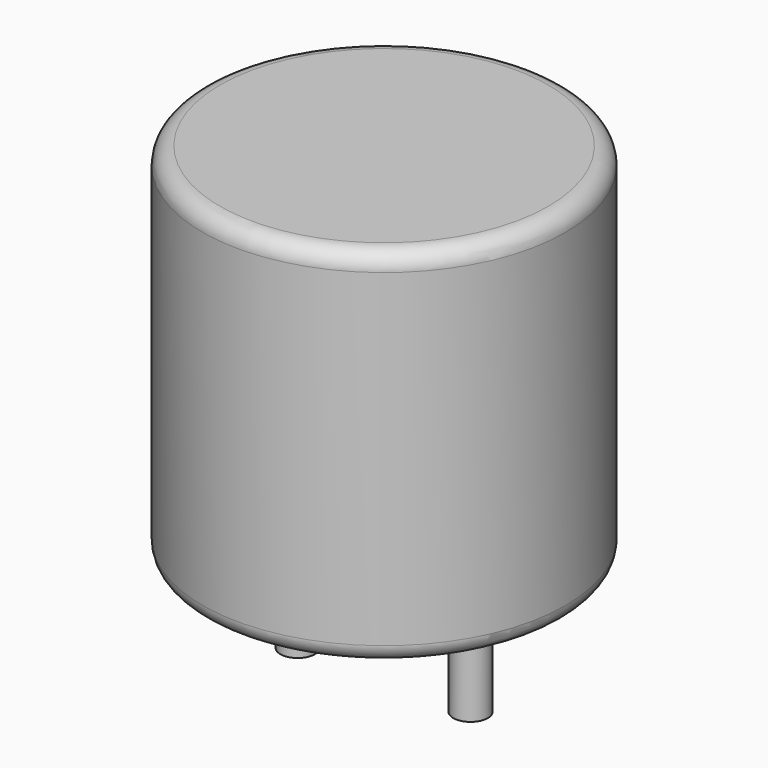
from build123d import *

# Parameters (mm, degrees)
SKETCH001_R       = 0.5
PAD001_DEPTH      = 5.25
PAD001_DEPTH_BACK = 3.5
SKETCH_R          = 5.25
PAD_DEPTH         = 10.5
FILLET_R          = 0.5


with BuildPart() as pad001:
    # Sketch001 → Pad001 (new body, two sides)
    with BuildSketch(Plane.XY.offset(0.5)) as pad001_sk:
        Circle(SKETCH001_R)
        with Locations((5, 0)):
            Circle(SKETCH001_R)
    extrude(amount=PAD001_DEPTH)
    extrude(pad001_sk.sketch, amount=-PAD001_DEPTH_BACK)


with BuildPart() as obj1:
    # Sketch → Pad (new body)
    with BuildSketch(Plane.XY.offset(0.1)):
        with Locations((2.5, 0)):
            Circle(SKETCH_R)
    extrude(amount=PAD_DEPTH)

    # Fillet
    fillet_edges = [obj1.edges().sort_by_distance(p)[0] for p in [
        (-2.75, 0, 0.1),
        (-2.75, 0, 10.6),
    ]]
    fillet(fillet_edges, radius=FILLET_R)

    # obj1: union Pad001
    add(pad001.part)


solid = obj1.part
